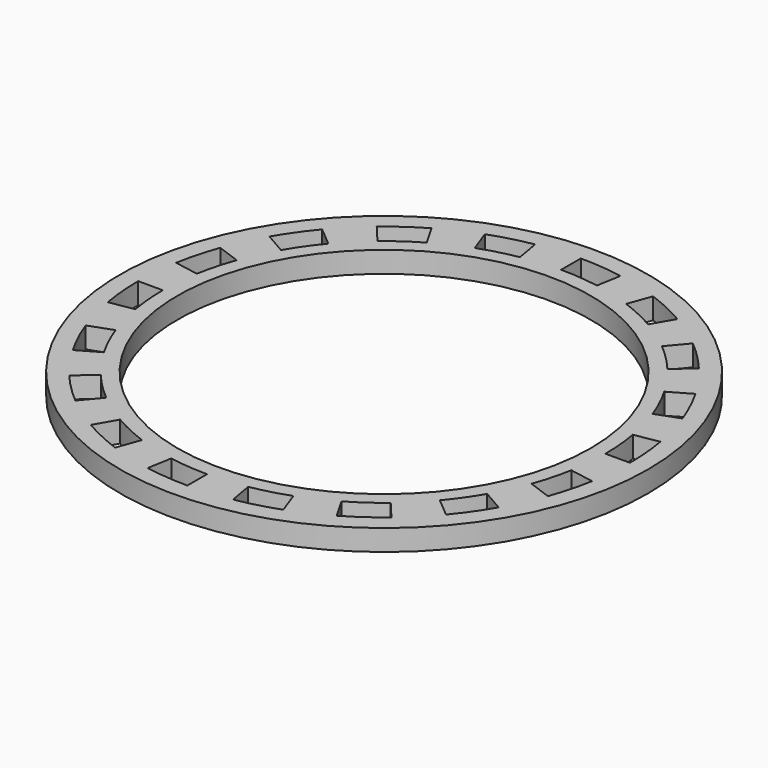
from build123d import *

# Parameters (mm, degrees)
F0_R     = 50
F1_DEPTH = 10
F2_R     = 125
F2_R_2   = 40.44952
F3_DEPTH = 10
F5_DEPTH = 25
F6_R     = 97.834201
F7_DEPTH = 25


with BuildPart() as f1:
    # F0 (on Top) → F1 (new body)
    with BuildSketch(Plane.XY):
        Circle(F0_R)
        Polygon((-10, 30), (0, 30), (10, 30), (10, 10), (30, 10), (30, 0), (30, -10), (10, -10), (10, -30), (0, -30), (-10, -30), (-10, -10), (-30, -10), (-30, 0), (-30, 10), (-10, 10), align=None, mode=Mode.SUBTRACT)
    extrude(amount=F1_DEPTH)

    # F2 (on face) → F3 (join)
    with BuildSketch(Plane.XY.offset(10)):
        Circle(F2_R)
        Circle(F2_R_2, mode=Mode.SUBTRACT)
    extrude(amount=-F3_DEPTH)

    # F4 (on face) → F5 (cut)
    with BuildSketch(Plane.XY.offset(10)):
        with BuildLine():
            Line((0, 116.456337), (0, 104.802647))
            ThreePointArc((0, 104.802647), (9.134153, 104.403842), (18.198789, 103.21046))
            Line((18.198789, 103.21046), (20.222431, 114.687104))
            ThreePointArc((20.222431, 114.687104), (10.149839, 116.013186), (0, 116.456337))
        make_face()
        with BuildLine():
            ThreePointArc((-35.844616, 98.482274), (-27.124921, 101.231584), (-18.198789, 103.21046))
            Line((-18.198789, 103.21046), (-20.222431, 114.687104))
            ThreePointArc((-20.222431, 114.687104), (-30.141118, 112.488184), (-39.830413, 109.433161))
            Line((-39.830413, 109.433161), (-35.844616, 98.482274))
        make_face()
        with BuildLine():
            ThreePointArc((-67.365843, 80.283486), (-60.112329, 85.849303), (-52.401324, 90.761755))
            Line((-52.401324, 90.761755), (-58.228169, 100.854147))
            ThreePointArc((-58.228169, 100.854147), (-66.796611, 95.395447), (-74.856691, 89.21073))
            Line((-74.856691, 89.21073), (-67.365843, 80.283486))
        make_face()
        with BuildLine():
            ThreePointArc((-90.761755, 52.401324), (-85.849303, 60.112329), (-80.283486, 67.365843))
            Line((-80.283486, 67.365843), (-89.21073, 74.856691))
            ThreePointArc((-89.21073, 74.856691), (-95.395447, 66.796611), (-100.854147, 58.228169))
            Line((-100.854147, 58.228169), (-90.761755, 52.401324))
        make_face()
        with BuildLine():
            ThreePointArc((-103.21046, 18.198789), (-101.231584, 27.124921), (-98.482274, 35.844616))
            Line((-98.482274, 35.844616), (-109.433161, 39.830413))
            ThreePointArc((-109.433161, 39.830413), (-112.488184, 30.141118), (-114.687104, 20.222431))
            Line((-114.687104, 20.222431), (-103.21046, 18.198789))
        make_face()
        with BuildLine():
            ThreePointArc((-103.21046, -18.198789), (-104.403842, -9.134153), (-104.802647, 0))
            Line((-104.802647, 0), (-116.456337, 0))
            ThreePointArc((-116.456337, 0), (-116.013186, -10.149839), (-114.687104, -20.222431))
            Line((-114.687104, -20.222431), (-103.21046, -18.198789))
        make_face()
        with BuildLine():
            ThreePointArc((-90.761755, -52.401324), (-94.983455, -44.291513), (-98.482274, -35.844616))
            Line((-98.482274, -35.844616), (-109.433161, -39.830413))
            ThreePointArc((-109.433161, -39.830413), (-105.545285, -49.216575), (-100.854147, -58.228169))
            Line((-100.854147, -58.228169), (-90.761755, -52.401324))
        make_face()
        with BuildLine():
            ThreePointArc((-67.365843, -80.283486), (-74.106663, -74.106663), (-80.283486, -67.365843))
            Line((-80.283486, -67.365843), (-89.21073, -74.856691))
            ThreePointArc((-89.21073, -74.856691), (-82.347066, -82.347066), (-74.856691, -89.21073))
            Line((-74.856691, -89.21073), (-67.365843, -80.283486))
        make_face()
        with BuildLine():
            ThreePointArc((-35.844616, -98.482274), (-44.291513, -94.983455), (-52.401324, -90.761755))
            Line((-52.401324, -90.761755), (-58.228169, -100.854147))
            ThreePointArc((-58.228169, -100.854147), (-49.216575, -105.545285), (-39.830413, -109.433161))
            Line((-39.830413, -109.433161), (-35.844616, -98.482274))
        make_face()
        with BuildLine():
            ThreePointArc((0, -104.802647), (-9.134153, -104.403842), (-18.198789, -103.21046))
            Line((-18.198789, -103.21046), (-20.222431, -114.687104))
            ThreePointArc((-20.222431, -114.687104), (-10.149839, -116.013186), (0, -116.456337))
            Line((0, -116.456337), (0, -104.802647))
        make_face()
        with BuildLine():
            ThreePointArc((35.844616, -98.482274), (27.124921, -101.231584), (18.198789, -103.21046))
            Line((18.198789, -103.21046), (20.222431, -114.687104))
            ThreePointArc((20.222431, -114.687104), (30.141118, -112.488184), (39.830413, -109.433161))
            Line((39.830413, -109.433161), (35.844616, -98.482274))
        make_face()
        with BuildLine():
            ThreePointArc((67.365843, -80.283486), (60.112329, -85.849303), (52.401324, -90.761755))
            Line((52.401324, -90.761755), (58.228169, -100.854147))
            ThreePointArc((58.228169, -100.854147), (66.796611, -95.395447), (74.856691, -89.21073))
            Line((74.856691, -89.21073), (67.365843, -80.283486))
        make_face()
        with BuildLine():
            ThreePointArc((90.761755, -52.401324), (85.849303, -60.112329), (80.283486, -67.365843))
            Line((80.283486, -67.365843), (89.21073, -74.856691))
            ThreePointArc((89.21073, -74.856691), (95.395447, -66.796611), (100.854147, -58.228169))
            Line((100.854147, -58.228169), (90.761755, -52.401324))
        make_face()
        with BuildLine():
            ThreePointArc((103.21046, -18.198789), (101.231584, -27.124921), (98.482274, -35.844616))
            Line((98.482274, -35.844616), (109.433161, -39.830413))
            ThreePointArc((109.433161, -39.830413), (112.488184, -30.141118), (114.687104, -20.222431))
            Line((114.687104, -20.222431), (103.21046, -18.198789))
        make_face()
        with BuildLine():
            ThreePointArc((103.21046, 18.198789), (104.403842, 9.134153), (104.802647, 0))
            Line((104.802647, 0), (116.456337, 0))
            ThreePointArc((116.456337, 0), (116.013186, 10.149839), (114.687104, 20.222431))
            Line((114.687104, 20.222431), (103.21046, 18.198789))
        make_face()
        with BuildLine():
            ThreePointArc((90.761755, 52.401324), (94.983455, 44.291513), (98.482274, 35.844616))
            Line((98.482274, 35.844616), (109.433161, 39.830413))
            ThreePointArc((109.433161, 39.830413), (105.545285, 49.216575), (100.854147, 58.228169))
            Line((100.854147, 58.228169), (90.761755, 52.401324))
        make_face()
        with BuildLine():
            ThreePointArc((67.365843, 80.283486), (74.106663, 74.106663), (80.283486, 67.365843))
            Line((80.283486, 67.365843), (89.21073, 74.856691))
            ThreePointArc((89.21073, 74.856691), (82.347066, 82.347066), (74.856691, 89.21073))
            Line((74.856691, 89.21073), (67.365843, 80.283486))
        make_face()
        with BuildLine():
            ThreePointArc((35.844616, 98.482274), (44.291513, 94.983455), (52.401324, 90.761755))
            Line((52.401324, 90.761755), (58.228169, 100.854147))
            ThreePointArc((58.228169, 100.854147), (49.216575, 105.545285), (39.830413, 109.433161))
            Line((39.830413, 109.433161), (35.844616, 98.482274))
        make_face()
    extrude(amount=-F5_DEPTH, mode=Mode.SUBTRACT)

    # F6 (on face) → F7 (cut)
    with BuildSketch(Plane.XY.offset(10)):
        Circle(F6_R)
    extrude(amount=-F7_DEPTH, mode=Mode.SUBTRACT)


solid = f1.part
